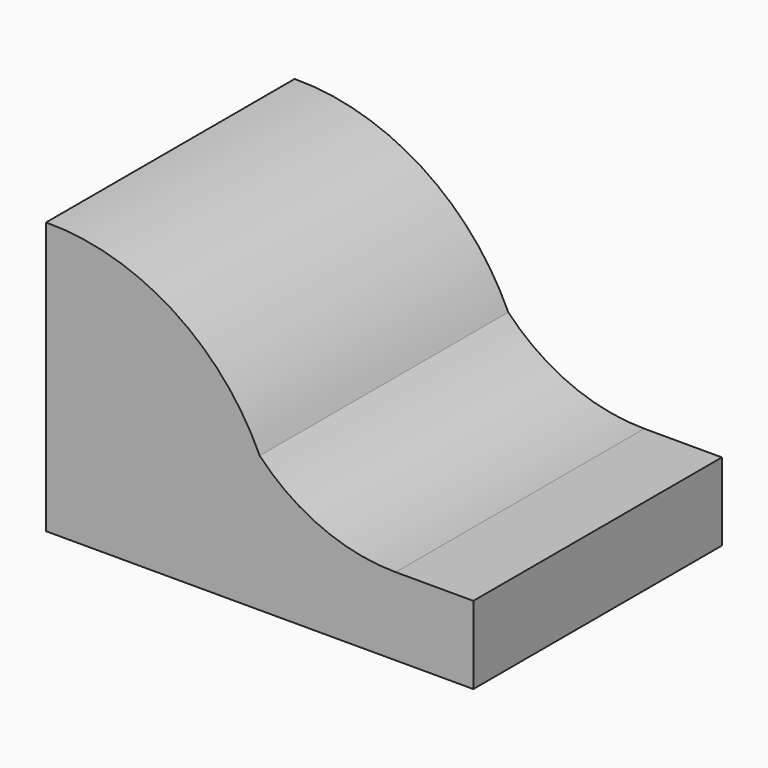
from build123d import *

# Parameters (mm, degrees)
F1_DEPTH      = 50.8
F1_DEPTH_BACK = 50.8


with BuildPart() as f1:
    # F0 (on Front) → F1 (new body, two sides)
    with BuildSketch(Plane.XZ) as f1_sk:
        with BuildLine():
            ThreePointArc((0, 0), (-28.342106, 32.569547), (-69.85, 44.45))
            Line((-69.85, 44.45), (-69.85, 0))
            Line((-69.85, 0), (-69.85, -44.45))
            Line((-69.85, -44.45), (0, -44.45))
            Line((0, -44.45), (69.85, -44.45))
            Line((69.85, -44.45), (69.85, -19.05))
            Line((69.85, -19.05), (44.45, -19.05))
            ThreePointArc((44.45, -19.05), (20.26992, -14.086852), (0, 0))
        make_face()
    extrude(amount=F1_DEPTH)
    extrude(f1_sk.sketch, amount=-F1_DEPTH_BACK)


solid = f1.part
